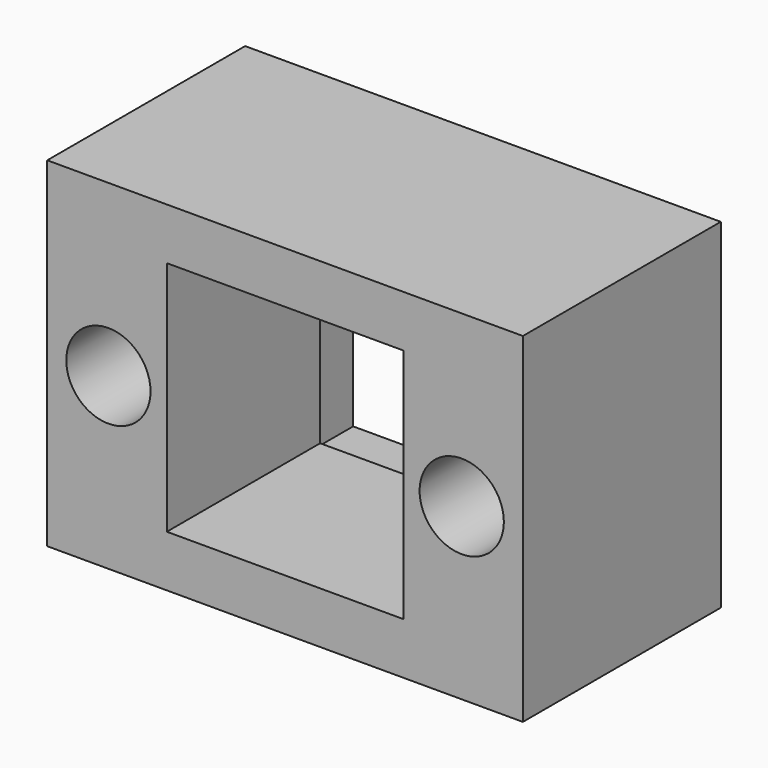
from build123d import *

# Parameters (mm, degrees)
F0_W     = 35
F0_H     = 25
F0_R     = 1.6
F0_W_2   = 19.1
F0_H_2   = 19.1
F1_DEPTH = 4.1
F2_W     = 35
F2_H     = 25
F2_R     = 3.1
F2_W_2   = 17.4
F2_H_2   = 17.4
F3_DEPTH = 14.1


with BuildPart() as f1:
    # F0 (on Front) → F1 (new body)
    with BuildSketch(Plane.XZ):
        Rectangle(F0_W, F0_H)
        with Locations((-13, 0)):
            Circle(F0_R, mode=Mode.SUBTRACT)
        Rectangle(F0_W_2, F0_H_2, mode=Mode.SUBTRACT)
        with Locations((13, 0)):
            Circle(F0_R, mode=Mode.SUBTRACT)
    extrude(amount=F1_DEPTH)

    # F2 (on face) → F3 (join)
    with BuildSketch(Plane.XZ.offset(4.1)):
        Rectangle(F2_W, F2_H)
        with Locations((-13, 0)):
            Circle(F2_R, mode=Mode.SUBTRACT)
        Rectangle(F2_W_2, F2_H_2, mode=Mode.SUBTRACT)
        with Locations((13, 0)):
            Circle(F2_R, mode=Mode.SUBTRACT)
    extrude(amount=F3_DEPTH)


solid = f1.part
